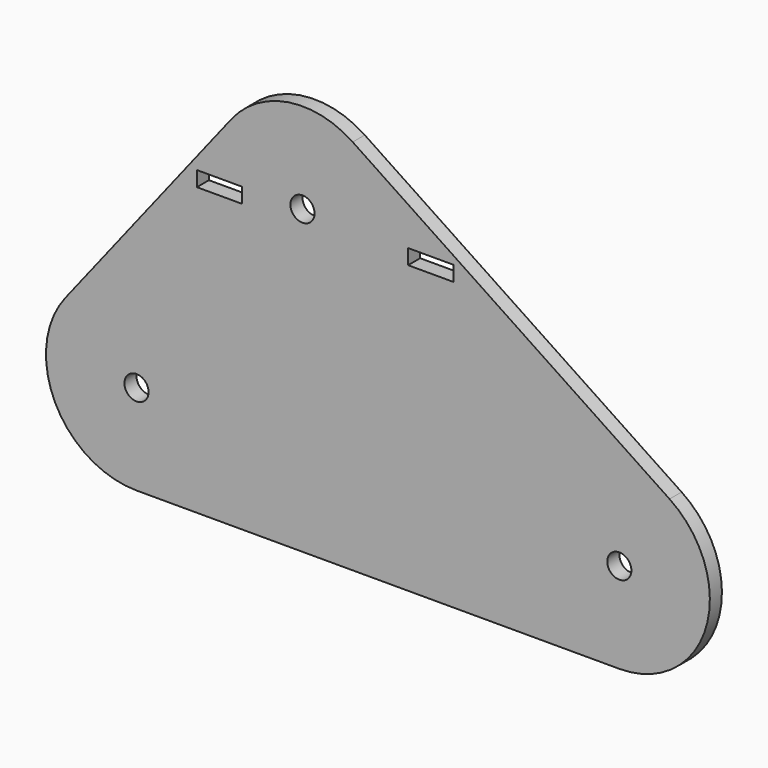
from build123d import *

# Parameters (mm, degrees)
F0_R     = 4
F1_DEPTH = 5
F2_W     = 15
F2_H     = 5
F3_DEPTH = 5


with BuildPart() as f1:
    # F0 (on Front) → F1 (new body)
    with BuildSketch(Plane.XZ):
        with BuildLine():
            Line((-23.58955, 88.534647), (-78.58955, 18.534647))
            ThreePointArc((-78.58955, 18.534647), (-81.98184, -13.114126), (-55, -30))
            Line((-55, -30), (105, -30))
            ThreePointArc((105, -30), (133.712761, -8.693524), (121.641006, 24.961509))
            Line((121.641006, 24.961509), (16.641006, 94.961509))
            ThreePointArc((16.641006, 94.961509), (-4.732516, 99.62437), (-23.58955, 88.534647))
        make_face()
        with Locations((-55, 0)):
            Circle(F0_R, mode=Mode.SUBTRACT)
        with Locations((105, 0)):
            Circle(F0_R, mode=Mode.SUBTRACT)
        with Locations((0, 70)):
            Circle(F0_R, mode=Mode.SUBTRACT)
    extrude(amount=F1_DEPTH)

    # F2 (on face) → F3 (cut)
    with BuildSketch(Plane.XZ.offset(5)):
        with Locations((-27.5, 67.5)):
            Rectangle(F2_W, F2_H)
        with Locations((42.5, 67.5)):
            Rectangle(F2_W, F2_H)
    extrude(amount=-F3_DEPTH, mode=Mode.SUBTRACT)


solid = f1.part
